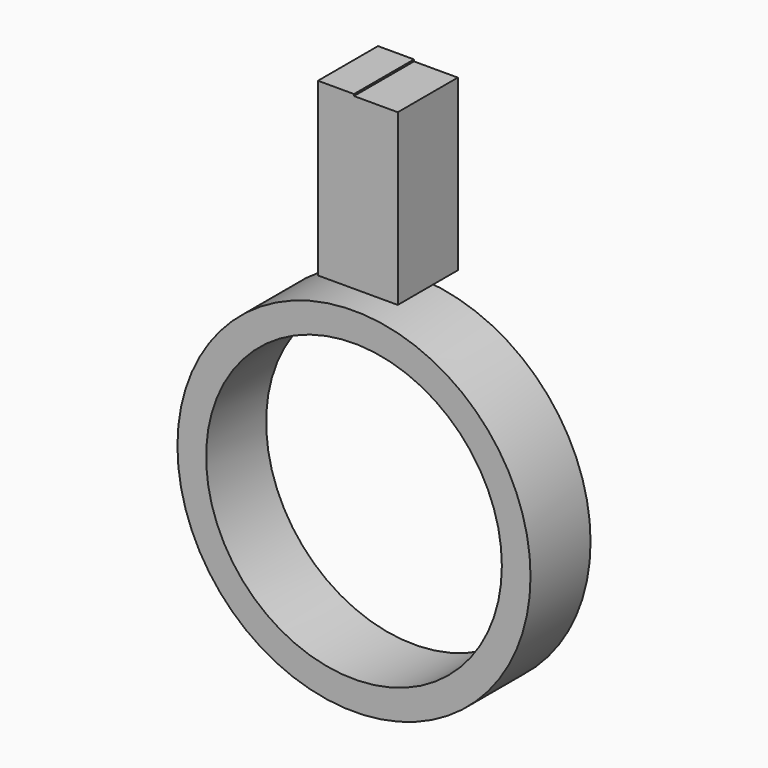
from build123d import *

# Parameters (mm, degrees)
F1_R     = 59.76198
F1_R_2   = 50.057529
F2_DEPTH = 25.4
F3_W     = 14.819194
F3_H     = 57.42839
F4_DEPTH = 25.4


with BuildPart() as f2:
    # F1 (on face) → F2 (new body)
    with BuildSketch(Plane.XZ):
        Circle(F1_R)
        Circle(F1_R_2, mode=Mode.SUBTRACT)
    extrude(amount=F2_DEPTH)


with BuildPart() as f4:
    # F3 (on Front) → F4 (new body)
    with BuildSketch(Plane.XZ):
        with Locations((7.409597, 95.002219)):
            Rectangle(F3_W, F3_H)
        Polygon((-12.193134, 66.288024), (0, 66.288024), (0, 123.716414), (0, 124.318503), (-12.193134, 124.318503), align=None)
    extrude(amount=F4_DEPTH)


solid = Compound([f2.part, f4.part])
